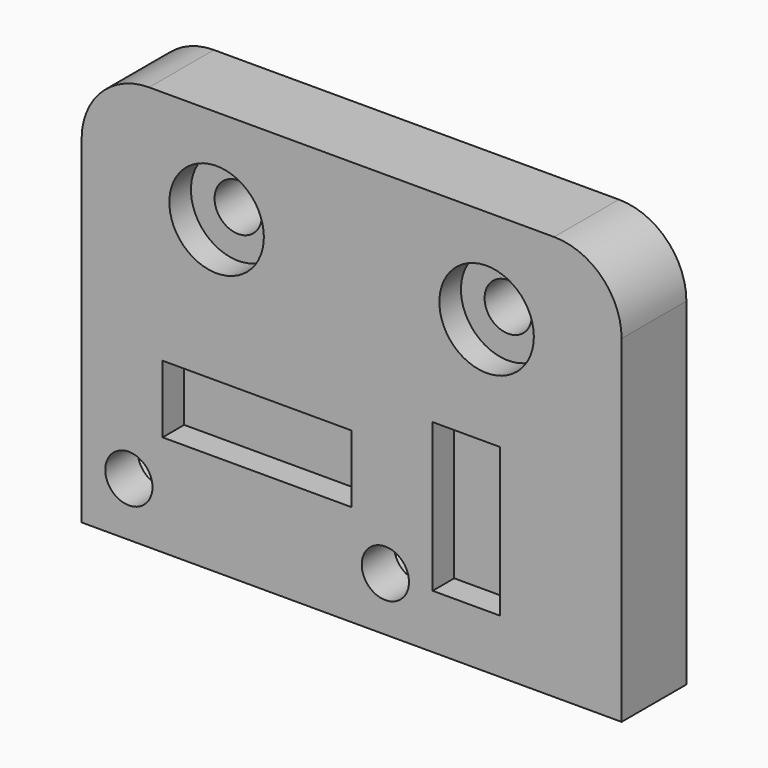
from build123d import *

# Parameters (mm, degrees)
F0_W     = 40
F0_H     = 30
F0_R     = 1.75
F0_W_2   = 14
F0_H_2   = 5
F0_W_3   = 5
F0_H_3   = 11
F0_R_2   = 3.5
F1_DEPTH = 6
F2_DEPTH = 2
F4_DEPTH = 3
F5_R     = 5


with BuildPart() as f1:
    # F0 (on Front) → F1 (new body)
    with BuildSketch(Plane.XZ):
        Rectangle(F0_W, F0_H)
        with Locations((-16.5, -11)):
            Circle(F0_R, mode=Mode.SUBTRACT)
        with Locations((-7, -5)):
            Rectangle(F0_W_2, F0_H_2, mode=Mode.SUBTRACT)
        with Locations((2.5, -11)):
            Circle(F0_R, mode=Mode.SUBTRACT)
        with Locations((8.5, -5.5)):
            Rectangle(F0_W_3, F0_H_3, mode=Mode.SUBTRACT)
        with Locations((-10, 8)):
            Circle(F0_R_2, mode=Mode.SUBTRACT)
        with Locations((10, 8)):
            Circle(F0_R_2, mode=Mode.SUBTRACT)
        with Locations((-7, -5)):
            Rectangle(F0_W_2, F0_H_2)
        with Locations((8.5, -5.5)):
            Rectangle(F0_W_3, F0_H_3)
        with Locations((10, 8)):
            Circle(F0_R_2)
        with Locations((10, 8)):
            Circle(F0_R, mode=Mode.SUBTRACT)
        with Locations((-10, 8)):
            Circle(F0_R_2)
        with Locations((-10, 8)):
            Circle(F0_R, mode=Mode.SUBTRACT)
    extrude(amount=-F1_DEPTH)

    # F0 (on Front) → F2 (cut)
    with BuildSketch(Plane.XZ):
        with Locations((8.5, -5.5)):
            Rectangle(F0_W_3, F0_H_3)
        with Locations((-7, -5)):
            Rectangle(F0_W_2, F0_H_2)
        with Locations((-10, 8)):
            Circle(F0_R_2)
        with Locations((-10, 8)):
            Circle(F0_R, mode=Mode.SUBTRACT)
        with Locations((10, 8)):
            Circle(F0_R_2)
        with Locations((10, 8)):
            Circle(F0_R, mode=Mode.SUBTRACT)
    extrude(amount=-F2_DEPTH, mode=Mode.SUBTRACT)

    # F3 (on face) → F4 (cut)
    with BuildSketch(Plane(origin=(0, 6, 0), x_dir=(-1, 0, 0), z_dir=(0, 1, 0))):
        Polygon((-2.5, -7.535898), (-5.5, -9.267949), (-5.5, -12.732051), (-2.5, -14.464102), (0.5, -12.732051), (0.5, -9.267949), align=None)
        Polygon((13.5, -9.267949), (13.5, -12.732051), (16.5, -14.464102), (19.5, -12.732051), (19.5, -9.267949), (16.5, -7.535898), align=None)
    extrude(amount=-F4_DEPTH, mode=Mode.SUBTRACT)

    # F5
    f5_edges = [f1.edges().sort_by_distance(p)[0] for p in [
        (20, 3, 15),
        (-20, 3, 15),
    ]]
    fillet(f5_edges, radius=F5_R)


solid = f1.part
